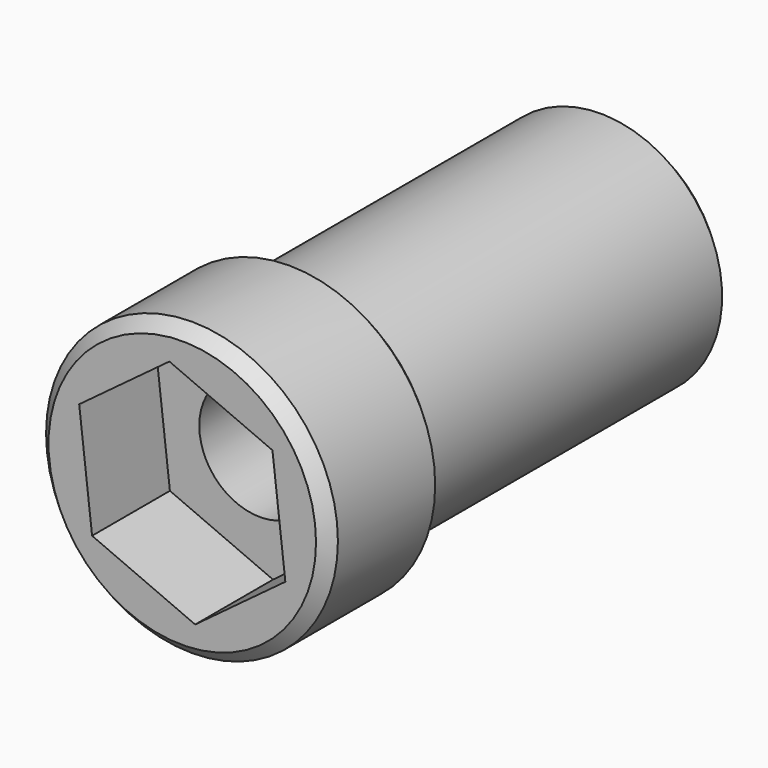
from build123d import *

# Parameters (mm, degrees)
F0_R     = 6
F1_DEPTH = 6
F3_DEPTH = 4
F4_R     = 5
F5_DEPTH = 16
F6_R     = 2.5
F7_DEPTH = 22.001
F8_SIZE  = 0.5


with BuildPart() as f1:
    # F0 (on Front) → F1 (new body)
    with BuildSketch(Plane.XZ):
        Circle(F0_R)
    extrude(amount=-F1_DEPTH)

    # F2 (on face) → F3 (cut)
    with BuildSketch(Plane.XZ):
        Polygon((3.708328, 2.753478), (-0.530418, 4.588245), (-4.238745, 1.834767), (-3.708328, -2.753478), (0.530418, -4.588245), (4.238745, -1.834767), align=None)
    extrude(amount=-F3_DEPTH, mode=Mode.SUBTRACT)

    # F4 (on face) → F5 (join)
    with BuildSketch(Plane(origin=(0, 6, 0), x_dir=(-1, 0, 0), z_dir=(0, 1, 0))):
        Circle(F4_R)
    extrude(amount=F5_DEPTH)

    # F6 (on face) → F7 (cut, through all)
    with BuildSketch(Plane(origin=(0, 22, 0), x_dir=(-1, 0, 0), z_dir=(0, 1, 0))):
        Circle(F6_R)
    extrude(amount=-F7_DEPTH, mode=Mode.SUBTRACT)

    # F8
    f8_edges = [f1.edges().sort_by_distance(p)[0] for p in [
        (-6, 0, 0),
        (6, 3, 0),
        (-6, 6, 0),
        (5, 22, 0),
    ]]
    chamfer(f8_edges, length=F8_SIZE)


solid = f1.part
